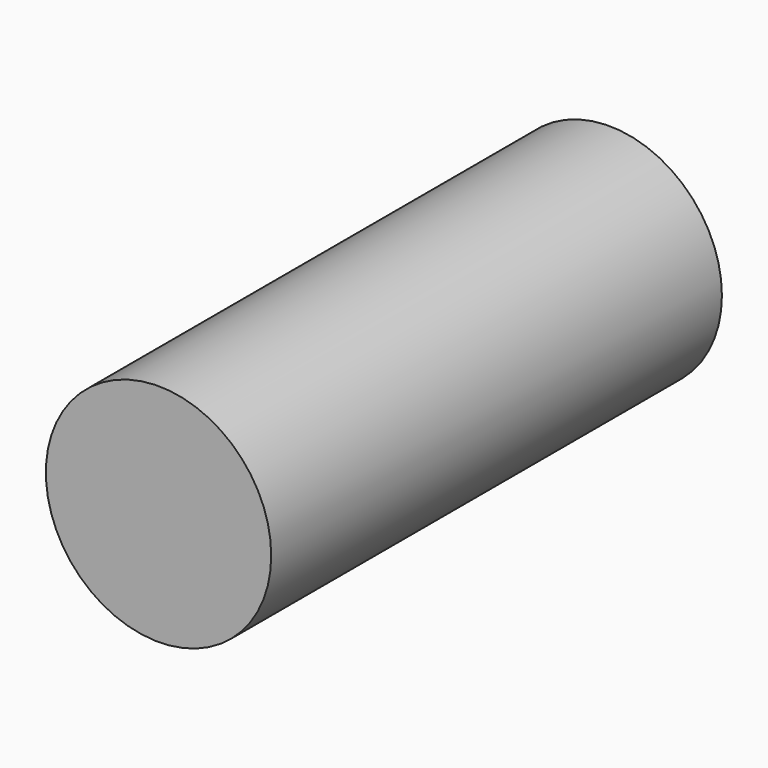
from build123d import *

# Parameters (mm, degrees)
F0_R     = 15
F1_DEPTH = 25
F2_DEPTH = 25
F3_DEPTH = 25


with BuildPart() as f1:
    # F0 (on Front) → F1 (new body)
    with BuildSketch(Plane.XZ):
        Circle(F0_R)
    extrude(amount=F1_DEPTH)

    # F2 (add): a face of the model
    f2_faces = [f1.faces().sort_by_distance(p)[0] for p in [
        (0, -25, 0),
    ]]
    extrude(f2_faces, amount=F2_DEPTH)

    # F3 (add): a face of the model
    f3_faces = [f1.faces().sort_by_distance(p)[0] for p in [
        (0, -50, 0),
    ]]
    extrude(f3_faces, amount=F3_DEPTH)


solid = f1.part
